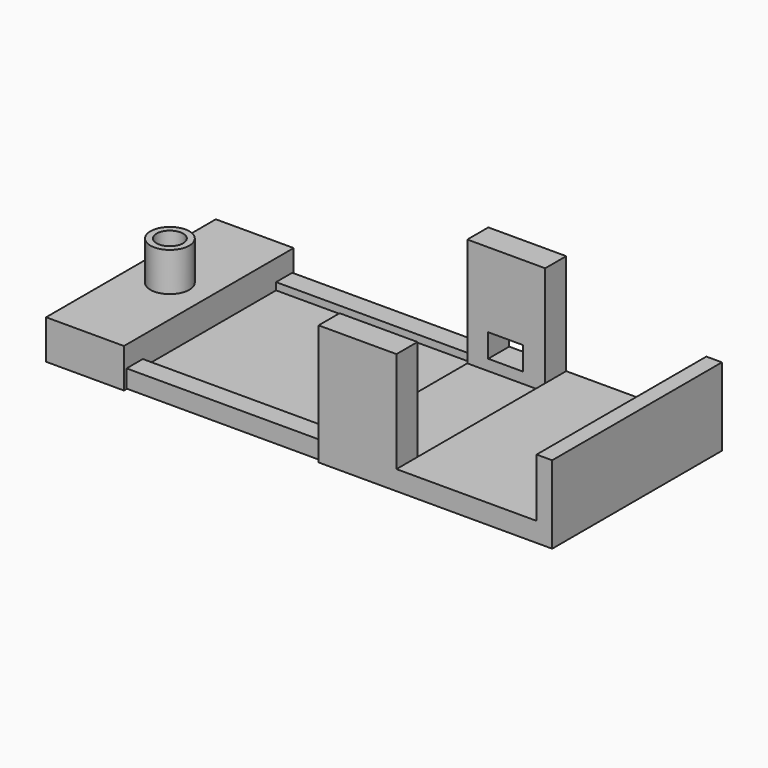
from build123d import *

# Parameters (mm, degrees)
PAD001_DEPTH    = 20
SKETCH004_W     = 9
SKETCH004_H     = 6
POCKET001_DEPTH = 8
PAD006_DEPTH    = 50
SKETCH013_W     = 54.5
SKETCH013_H     = 10.071398
PAD007_DEPTH    = 20
SKETCH014_R     = 5
PAD008_DEPTH    = 10
SKETCH015_R     = 3.4
POCKET005_DEPTH = 25
SKETCH016_W     = 54.5
SKETCH016_H     = 5
PAD009_DEPTH    = 40
SKETCH017_W     = 54.5
SKETCH017_H     = 4
PAD010_DEPTH    = 15


with BuildPart() as part:
    # Sketch002 → Pad001 (new body)
    with BuildSketch(Plane.YZ):
        Polygon((-27.098937, -22.548221), (27.401063, -22.548221), (27.401063, 8.451779), (20.651063, 8.451779), (20.651063, -19.548221), (-20.348937, -19.548221), (-20.348937, 8.451779), (-27.098937, 8.451779), align=None)
    extrude(amount=PAD001_DEPTH)

    # Sketch004 → Pocket001 (cut)
    with BuildSketch(Plane(origin=(0, 27.401063, 0), x_dir=(-1, 0, 0), z_dir=(0, 1, 0))):
        with Locations((-9.865053, -13.762334)):
            Rectangle(SKETCH004_W, SKETCH004_H)
    extrude(amount=-POCKET001_DEPTH, mode=Mode.SUBTRACT)

    # Sketch003 (on Face4 of Pocket001) → Pad006 (join)
    with BuildSketch(Plane(origin=(0, 0, 0), x_dir=(0, 1, 0), z_dir=(-1, 0, 0))):
        Polygon((-21.047689, 17.881043), (-26.254499, 17.881043), (-26.254499, 22.454655), (26.951211, 22.454655), (26.951211, 17.881043), (21.744401, 17.881043), (21.744401, 19.754328), (-21.047689, 19.754328), align=None)
    extrude(amount=PAD006_DEPTH)

    # Sketch013 (on Face23 of Pad006) → Pad007 (join)
    with BuildSketch(Plane(origin=(-50, 0, 0), x_dir=(0, 1, 0), z_dir=(-1, 0, 0))):
        with Locations((0.151063, 17.512522)):
            Rectangle(SKETCH013_W, SKETCH013_H)
    extrude(amount=PAD007_DEPTH)

    # Sketch014 (on Face6 of Pad007) → Pad008 (join)
    with BuildSketch(Plane(origin=(0, 0, -12.476823), x_dir=(0, -1, 0), z_dir=(0, 0, 1))):
        with Locations((-0.151063, -60)):
            Circle(SKETCH014_R)
    extrude(amount=PAD008_DEPTH)

    # Sketch015 (on Face17 of Pad008) → Pocket005 (cut)
    with BuildSketch(Plane(origin=(0, 0, -2.476823), x_dir=(0, -1, 0), z_dir=(0, 0, 1))):
        with Locations((-0.151063, -60)):
            Circle(SKETCH015_R)
    extrude(amount=-POCKET005_DEPTH, mode=Mode.SUBTRACT)

    # Sketch016 (on Face27 of Pocket005) → Pad009 (join)
    with BuildSketch(Plane.YZ.offset(20)):
        with Locations((0.151063, -20.048221)):
            Rectangle(SKETCH016_W, SKETCH016_H)
    extrude(amount=PAD009_DEPTH)

    # Sketch017 (on Face37 of Pad009) → Pad010 (join)
    with BuildSketch(Plane(origin=(0, 0, -17.548221), x_dir=(0, -1, 0), z_dir=(0, 0, 1))):
        with Locations((-0.151063, 58)):
            Rectangle(SKETCH017_W, SKETCH017_H)
    extrude(amount=PAD010_DEPTH)


solid = part.part
